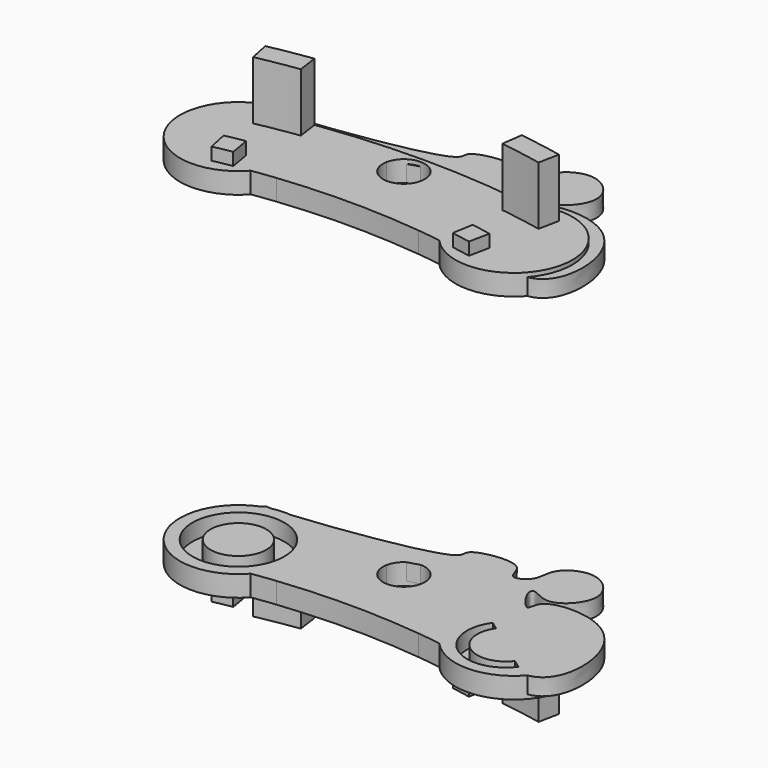
from build123d import *

# Parameters (mm, degrees)
F1_DEPTH  = 1.25
F3_DEPTH  = 4.75
F5_DEPTH  = 2
F6_R      = 3.5
F7_DEPTH  = 1.25
F9_DEPTH  = 1
F10_R     = 2.75
F11_DEPTH = 1
F12_R     = 1.6695658672
F13_DEPTH = 1
F15_DEPTH = 1
F17_DEPTH = 1


with BuildPart() as f1:
    # F0 (on Top) → F1 (new body)
    with BuildSketch(Plane.XY):
        with BuildLine():
            ThreePointArc((5.9976509575, 42.832122093), (6.6456632834, 42.7363739632), (7.2921511628, 42.6308225515))
            Line((7.2921511628, 42.6308225515), (7.5029069767, 43.8629272495))
            ThreePointArc((7.5029069767, 43.8629272495), (6.7010150496, 43.9925720697), (5.8968902794, 44.1075581395))
            ThreePointArc((5.8968902794, 44.1075581395), (5.9741669577, 43.5561736795), (6, 43))
            ThreePointArc((6, 43), (5.9994127106, 42.9160528296), (5.9976509575, 42.832122093))
        make_face()
        with BuildLine():
            Line((-7.5029069767, 43.8629272495), (-7.2921511628, 42.6308225515))
            ThreePointArc((-7.2921511628, 42.6308225515), (-6.6456632834, 42.7363739632), (-5.9976509575, 42.832122093))
            ThreePointArc((-5.9976509575, 42.832122093), (-5.9813637313, 43.4725335051), (-5.8968902794, 44.1075581395))
            ThreePointArc((-5.8968902794, 44.1075581395), (-6.7010150496, 43.9925720697), (-7.5029069767, 43.8629272495))
        make_face()
        with BuildLine():
            ThreePointArc((1.2281761729, 43.2325581395), (3.6184570865, 43.0983673509), (5.9976509575, 42.832122093))
            ThreePointArc((5.9976509575, 42.832122093), (5.9994127106, 42.9160528296), (6, 43))
            ThreePointArc((6, 43), (5.9741669577, 43.5561736795), (5.8968902794, 44.1075581395))
            ThreePointArc((5.8968902794, 44.1075581395), (0, 44.5), (-5.8968902794, 44.1075581395))
            ThreePointArc((-5.8968902794, 44.1075581395), (-5.9813637313, 43.4725335051), (-5.9976509575, 42.832122093))
            ThreePointArc((-5.9976509575, 42.832122093), (-3.6184570865, 43.0983673509), (-1.2281761729, 43.2325581395))
            ThreePointArc((-1.2281761729, 43.2325581395), (0, 44.25), (1.2281761729, 43.2325581395))
        make_face()
        with BuildLine():
            ThreePointArc((5.1487358592, 39.9193313953), (5.9687994799, 39.804973719), (6.7863372093, 39.6737712763))
            Line((6.7863372093, 39.6737712763), (7.2921511628, 42.6308225515))
            ThreePointArc((7.2921511628, 42.6308225515), (6.6456632834, 42.7363739632), (5.9976509575, 42.832122093))
            ThreePointArc((5.9976509575, 42.832122093), (5.7603447969, 41.3211826125), (5.1487358592, 39.9193313953))
        make_face()
        with BuildLine():
            ThreePointArc((-5.1487358592, 39.9193313953), (0, 40.25), (5.1487358592, 39.9193313953))
            ThreePointArc((5.1487358592, 39.9193313953), (5.7603447969, 41.3211826125), (5.9976509575, 42.832122093))
            ThreePointArc((5.9976509575, 42.832122093), (3.6184570865, 43.0983673509), (1.2281761729, 43.2325581395))
            ThreePointArc((1.2281761729, 43.2325581395), (1.244532084, 43.1167899479), (1.25, 43))
            ThreePointArc((1.25, 43), (-0.1167899479, 41.755467916), (-1.2281761729, 43.2325581395))
            ThreePointArc((-1.2281761729, 43.2325581395), (-3.6184570865, 43.0983673509), (-5.9976509575, 42.832122093))
            ThreePointArc((-5.9976509575, 42.832122093), (-5.7603447969, 41.3211826125), (-5.1487358592, 39.9193313953))
        make_face()
        with BuildLine():
            Line((-7.2921511628, 42.6308225515), (-6.7863372093, 39.6737712763))
            ThreePointArc((-6.7863372093, 39.6737712763), (-5.9687994799, 39.804973719), (-5.1487358592, 39.9193313953))
            ThreePointArc((-5.1487358592, 39.9193313953), (-5.7603447969, 41.3211826125), (-5.9976509575, 42.832122093))
            ThreePointArc((-5.9976509575, 42.832122093), (-6.6456632834, 42.7363739632), (-7.2921511628, 42.6308225515))
        make_face()
        with BuildLine():
            Line((-6.7863372093, 39.6737712763), (-6.5755813953, 38.4416665782))
            ThreePointArc((-6.5755813953, 38.4416665782), (-5.4165900946, 38.6220215906), (-4.2526993305, 38.7674418605))
            ThreePointArc((-4.2526993305, 38.7674418605), (-4.7358693269, 39.3160426552), (-5.1487358592, 39.9193313953))
            ThreePointArc((-5.1487358592, 39.9193313953), (-5.9687994799, 39.804973719), (-6.7863372093, 39.6737712763))
        make_face()
        with BuildLine():
            ThreePointArc((-4.2526993305, 38.7674418605), (0, 39), (4.2526993305, 38.7674418605))
            ThreePointArc((4.2526993305, 38.7674418605), (4.7358693269, 39.3160426552), (5.1487358592, 39.9193313953))
            ThreePointArc((5.1487358592, 39.9193313953), (0, 40.25), (-5.1487358592, 39.9193313953))
            ThreePointArc((-5.1487358592, 39.9193313953), (-4.7358693269, 39.3160426552), (-4.2526993305, 38.7674418605))
        make_face()
        with BuildLine():
            ThreePointArc((4.2526993305, 38.7674418605), (5.4165900946, 38.6220215906), (6.5755813953, 38.4416665782))
            Line((6.5755813953, 38.4416665782), (6.7863372093, 39.6737712763))
            ThreePointArc((6.7863372093, 39.6737712763), (5.9687994799, 39.804973719), (5.1487358592, 39.9193313953))
            ThreePointArc((5.1487358592, 39.9193313953), (4.7358693269, 39.3160426552), (4.2526993305, 38.7674418605))
        make_face()
        with BuildLine():
            ThreePointArc((6.7863372093, 39.6737712763), (7.3721720875, 39.5690987857), (7.9563953488, 39.4557761684))
            Line((7.9563953488, 39.4557761684), (8.5494186047, 42.3965793611))
            ThreePointArc((8.5494186046, 42.3965793611), (7.9216507524, 42.5183483846), (7.2921511628, 42.6308225515))
            Line((7.2921511628, 42.6308225515), (6.7863372093, 39.6737712763))
        make_face()
        with BuildLine():
            Line((-8.5494186047, 42.3965793611), (-7.9563953488, 39.4557761684))
            ThreePointArc((-7.9563953488, 39.4557761684), (-7.3721720874, 39.5690987857), (-6.7863372093, 39.6737712763))
            Line((-6.7863372093, 39.6737712763), (-7.2921511628, 42.6308225515))
            ThreePointArc((-7.2921511628, 42.6308225515), (-7.9216507524, 42.5183483846), (-8.5494186046, 42.3965793611))
        make_face()
    extrude(amount=F1_DEPTH)

    # F2 (on Top) → F3 (join)
    with BuildSketch(Plane.XY):
        with BuildLine():
            ThreePointArc((6.0348837209, 42.8268920011), (7.2953245865, 42.6302796047), (8.5494186046, 42.3965793611))
            Line((8.5494186047, 42.3965793611), (8.7965116279, 43.6219140247))
            ThreePointArc((8.7965116279, 43.6219140247), (7.5061721179, 43.8623686106), (6.2093023256, 44.0646634462))
            Line((6.2093023256, 44.0646634462), (6.0348837209, 42.8268920011))
        make_face()
        with BuildLine():
            Line((-8.7965116279, 43.6219140247), (-8.5494186047, 42.3965793611))
            ThreePointArc((-8.5494186046, 42.3965793611), (-7.2953245865, 42.6302796047), (-6.0348837209, 42.8268920011))
            Line((-6.0348837209, 42.8268920011), (-6.2093023256, 44.0646634462))
            ThreePointArc((-6.2093023256, 44.0646634462), (-7.5061721179, 43.8623686106), (-8.7965116279, 43.6219140247))
        make_face()
    extrude(amount=F3_DEPTH)

    # F4 (on Top) → F5 (join)
    with BuildSketch(Plane.XY):
        with BuildLine():
            Line((-7.9563953488, 39.4557761684), (-7.7093023256, 38.2304415048))
            ThreePointArc((-7.7093023256, 38.2304415048), (-7.1432226437, 38.3402447862), (-6.5755813953, 38.4416665782))
            Line((-6.5755813953, 38.4416665782), (-6.7863372093, 39.6737712763))
            ThreePointArc((-6.7863372093, 39.6737712763), (-7.3721720874, 39.5690987857), (-7.9563953488, 39.4557761684))
        make_face()
        with BuildLine():
            ThreePointArc((6.5755813953, 38.4416665782), (7.1432226437, 38.3402447862), (7.7093023256, 38.2304415048))
            Line((7.7093023256, 38.2304415048), (7.9563953488, 39.4557761684))
            ThreePointArc((7.9563953488, 39.4557761684), (7.3721720875, 39.5690987857), (6.7863372093, 39.6737712763))
            Line((6.7863372093, 39.6737712763), (6.5755813953, 38.4416665782))
        make_face()
    extrude(amount=F5_DEPTH)

    # F6 (on face) → F7 (join)
    with BuildSketch(Plane(origin=(0, 0, 0), x_dir=(1, 0, 0), z_dir=(0, 0, -1))):
        with Locations((-8.2529069767, -40.9261777648)):
            Circle(F6_R)
        with Locations((8.2529069767, -40.9261777648)):
            Circle(F6_R)
    extrude(amount=-F7_DEPTH)

    # F8 (on face) → F9 (join)
    with BuildSketch(Plane(origin=(0, 0, 0), x_dir=(1, 0, 0), z_dir=(0, 0, -1))):
        with BuildLine():
            add(Edge.make_bspline(
                [(-9.5162350118, -44.1902246817), (-9.3452853568, -44.3997214239), (-9.2925808557, -44.1168060061), (1.5806022859, -45.4788602591), (0.5020655386, -46.9030252274), (4.0249308146, -47.5297146564), (3.8464134745, -45.6754949766), (5.2928458478, -46.3838972191), (4.9874601179, -47.83902591), (7.1506807189, -48.9964205532), (9.2131223026, -46.8157607143), (7.1066895878, -44.5754216398), (5.8763266464, -45.637770372), (5.4977380202, -45.2144058583), (6.8209931715, -43.450718504), (6.5267356623, -45.1845093843), (10.706978782, -45.3589863472), (12.8211872088, -41.7842146056), (11.4767145587, -36.3130167116), (1.7606300824, -43.6345499331), (0.633541293, -45.1474617197), (-9.9175794231, -39.8519195154), (-10.0503395683, -40.2322001195), (-13.0435357392, -38.9655501392), (-10.026773921, -43.5645654007), (-9.5162350118, -44.1902246817)],
                knots=[0, 0, 0, 0, 0.0207427308, 0.1104379983, 0.1340694461, 0.1800093186, 0.2095403112, 0.2372741709, 0.2697756999, 0.3089116792, 0.3511648005, 0.3936533087, 0.4251616858, 0.4402995162, 0.4755235176, 0.4991590294, 0.5504949796, 0.6072543289, 0.6582597102, 0.7483251503, 0.7920412333, 0.8849798931, 0.9040136957, 0.9380521056, 1, 1, 1, 1], degree=3))
        make_face()
    extrude(amount=-F9_DEPTH)

    # F10 (on face) → F11 (cut)
    with BuildSketch(Plane(origin=(0, 0, 0), x_dir=(1, 0, 0), z_dir=(0, 0, -1))):
        with Locations((-8.2529069767, -40.9261777648)):
            Circle(F10_R)
    extrude(amount=-F11_DEPTH, mode=Mode.SUBTRACT)

    # F12 (on face) → F13 (join)
    with BuildSketch(Plane(origin=(0, 0, 0), x_dir=(1, 0, 0), z_dir=(0, 0, -1))):
        with Locations((-8.2529069767, -40.9261777648)):
            Circle(F12_R)
    extrude(amount=-F13_DEPTH)

    # F14 (on face) → F15 (cut)
    with BuildSketch(Plane(origin=(0, 0, 0), x_dir=(1, 0, 0), z_dir=(0, 0, -1))):
        with BuildLine():
            Line((6.3064802222, -41.7735320131), (10.0249791734, -39.0426735779))
            ThreePointArc((10.0249791734, -39.0426735779), (6.8003004802, -38.5488533198), (6.3064802222, -41.7735320131))
        make_face()
    extrude(amount=-F15_DEPTH, mode=Mode.SUBTRACT)

    # F16 (on face) → F17 (join)
    with BuildSketch(Plane(origin=(0, 0, 0), x_dir=(1, 0, 0), z_dir=(0, 0, -1))):
        with BuildLine():
            Line((6.7872682291, -41.4444769534), (9.5479843004, -39.4170124122))
            ThreePointArc((9.5479843004, -39.4170124122), (7.1538939941, -39.0503866472), (6.7872682291, -41.4444769534))
        make_face()
    extrude(amount=-F17_DEPTH)


with BuildPart() as f1_1:
    # F18: moved
    add(f1.part.moved(Location((0, 0, 10))))


with BuildPart() as f19_1:
    # F19: instance of F1
    add(f1_1.part.mirror(Plane.XY))


solid = Compound([f1_1.part, f19_1.part])
